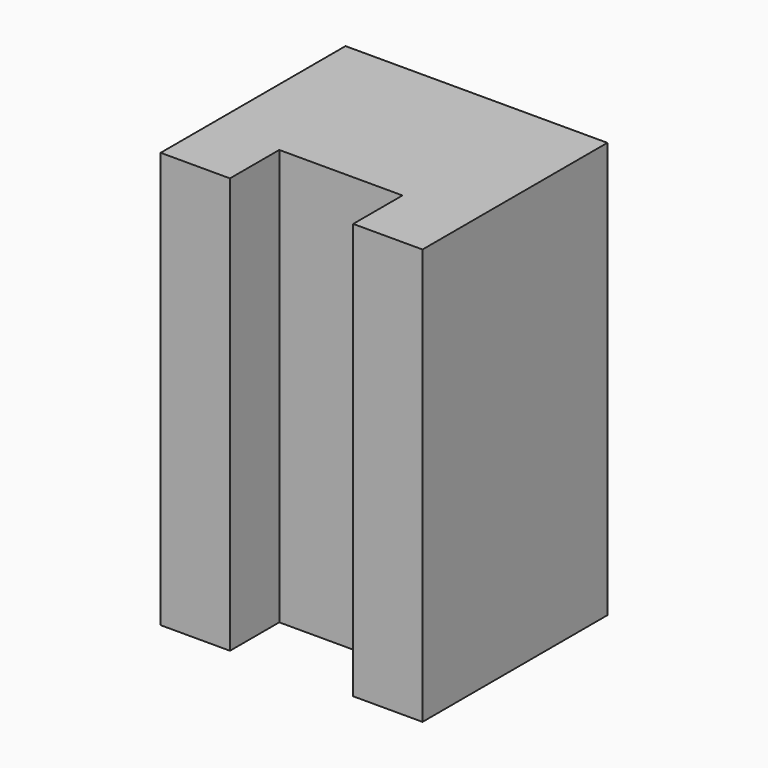
from build123d import *

# Parameters (mm, degrees)
F1_DEPTH = 54
F2_W     = 12
F2_H     = 30
F3_DEPTH = 17


with BuildPart() as f1:
    # F0 (on Top) → F1 (new body)
    with BuildSketch(Plane.XY):
        Polygon((17, 15), (-17, 15), (-17, -15), (-8, -15), (-8, -7), (0, -7), (8, -7), (8, -15), (17, -15), align=None)
    extrude(amount=F1_DEPTH)

    # F2 (on face) → F3 (cut)
    with BuildSketch(Plane(origin=(-17, 0, 0), x_dir=(0, -1, 0), z_dir=(-1, 0, 0))):
        with Locations((-9, 27)):
            Rectangle(F2_W, F2_H)
    extrude(amount=-F3_DEPTH, mode=Mode.SUBTRACT)


solid = f1.part
